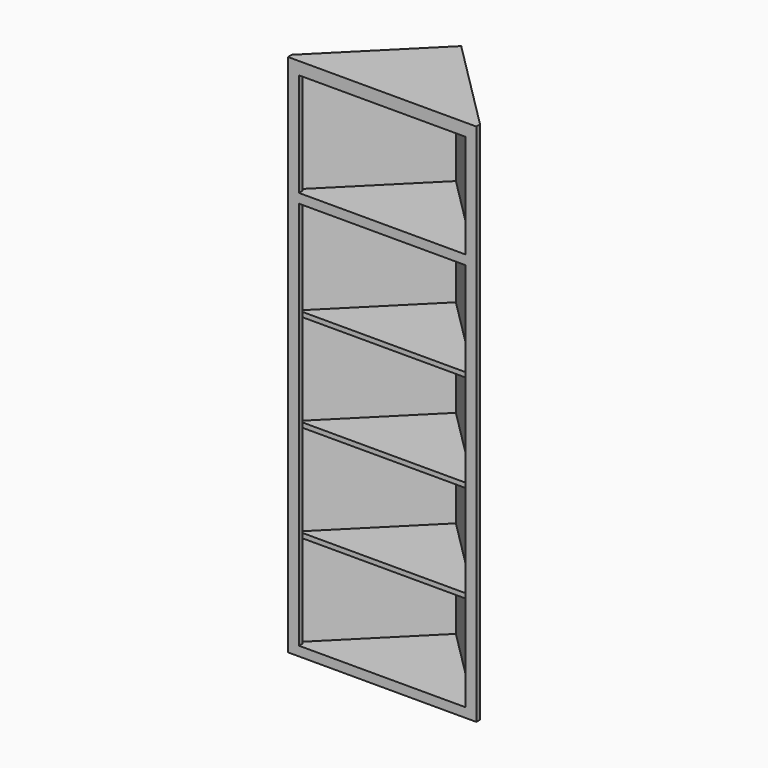
from build123d import *

# Parameters (mm, degrees)
F1_DEPTH  = 2133.6
F2_DEPTH  = 2133.6
F3_DEPTH  = 2133.6
F4_DEPTH  = 1905
F5_W      = 673.1
F5_H      = 419.1
F5_H_2    = 1574.8
F6_DEPTH  = 19.05
F7_DEPTH  = 209.55
F8_DEPTH  = 1663.7
F9_DEPTH  = 1644.65
F10_DEPTH = 1231.9
F11_DEPTH = 1212.85
F12_DEPTH = 787.4
F13_DEPTH = 768.35
F14_DEPTH = 393.7
F15_DEPTH = 374.65
F16_DEPTH = 50.8
F17_DEPTH = 31.75
F18_DEPTH = 50.8
F19_DEPTH = 50.8
F20_DEPTH = 50.8
F21_DEPTH = 50.8
F22_DEPTH = 12.7


with BuildPart() as f1:
    # F0 (on Top) → F1 (new body)
    with BuildSketch(Plane.XY):
        Polygon((-354.0592090795, -381), (-380.9999747663, -381), (-380.9999747663, -400.05), (381.0000252337, -400.05), (381.0000252337, -381), (354.0592559783, -381), align=None)
    extrude(amount=F1_DEPTH)

    # F0 (on Top) → F2 (join)
    with BuildSketch(Plane.XY):
        Polygon((381.0000252337, -381), (0, 0), (0, -26.9407674711), (354.0592559783, -381), align=None)
        Polygon((0, 0), (-380.9999747663, -381), (-354.0592090795, -381), (0, -26.9407674711), align=None)
    extrude(amount=F2_DEPTH)

    # F0 (on Top) → F3 (join)
    with BuildSketch(Plane.XY):
        Polygon((0, -26.9407674711), (-354.0592090795, -381), (354.0592559783, -381), align=None)
    extrude(amount=F3_DEPTH)

    # F0 (on Top) → F4 (cut)
    with BuildSketch(Plane.XY):
        Polygon((0, -26.9407674711), (-354.0592090795, -381), (354.0592559783, -381), align=None)
    extrude(amount=F4_DEPTH, mode=Mode.SUBTRACT)

    # F5 (on face) → F6 (cut)
    with BuildSketch(Plane.XZ.offset(400.05)):
        with Locations((2.52337e-05, 1873.25)):
            Rectangle(F5_W, F5_H)
        with Locations((2.52337e-05, 838.2)):
            Rectangle(F5_W, F5_H_2)
    extrude(amount=-F6_DEPTH, mode=Mode.SUBTRACT)

    # F7 (cut): a face of the model
    f7_faces = [f1.faces().sort_by_distance(p)[0] for p in [
        (1.56329e-05, -262.9802558237, 1905),
    ]]
    extrude(f7_faces, amount=-F7_DEPTH, mode=Mode.SUBTRACT)

    # F0 (on Top) → F8 (join)
    with BuildSketch(Plane.XY):
        Polygon((0, -26.9407674711), (-354.0592090795, -381), (354.0592559783, -381), align=None)
    extrude(amount=F8_DEPTH)

    # F0 (on Top) → F9 (cut)
    with BuildSketch(Plane.XY):
        Polygon((0, -26.9407674711), (-354.0592090795, -381), (354.0592559783, -381), align=None)
    extrude(amount=F9_DEPTH, mode=Mode.SUBTRACT)

    # F0 (on Top) → F10 (join)
    with BuildSketch(Plane.XY):
        Polygon((0, -26.9407674711), (-354.0592090795, -381), (354.0592559783, -381), align=None)
    extrude(amount=F10_DEPTH)

    # F0 (on Top) → F11 (cut)
    with BuildSketch(Plane.XY):
        Polygon((0, -26.9407674711), (-354.0592090795, -381), (354.0592559783, -381), align=None)
    extrude(amount=F11_DEPTH, mode=Mode.SUBTRACT)

    # F0 (on Top) → F12 (join)
    with BuildSketch(Plane.XY):
        Polygon((0, -26.9407674711), (-354.0592090795, -381), (354.0592559783, -381), align=None)
    extrude(amount=F12_DEPTH)

    # F0 (on Top) → F13 (cut)
    with BuildSketch(Plane.XY):
        Polygon((0, -26.9407674711), (-354.0592090795, -381), (354.0592559783, -381), align=None)
    extrude(amount=F13_DEPTH, mode=Mode.SUBTRACT)

    # F0 (on Top) → F14 (join)
    with BuildSketch(Plane.XY):
        Polygon((0, -26.9407674711), (-354.0592090795, -381), (354.0592559783, -381), align=None)
    extrude(amount=F14_DEPTH)

    # F0 (on Top) → F15 (cut)
    with BuildSketch(Plane.XY):
        Polygon((0, -26.9407674711), (-354.0592090795, -381), (354.0592559783, -381), align=None)
    extrude(amount=F15_DEPTH, mode=Mode.SUBTRACT)

    # F0 (on Top) → F16 (join)
    with BuildSketch(Plane.XY):
        Polygon((0, -26.9407674711), (-354.0592090795, -381), (354.0592559783, -381), align=None)
    extrude(amount=F16_DEPTH)

    # F0 (on Top) → F17 (cut)
    with BuildSketch(Plane.XY):
        Polygon((0, -26.9407674711), (-354.0592090795, -381), (354.0592559783, -381), align=None)
    extrude(amount=F17_DEPTH, mode=Mode.SUBTRACT)

    # F18 (add): a face of the model
    f18_faces = [f1.faces().sort_by_distance(p)[0] for p in [
        (1.56329e-05, -262.9802558237, 787.4),
    ]]
    extrude(f18_faces, amount=F18_DEPTH)

    # F19 (cut): a face of the model
    f19_faces = [f1.faces().sort_by_distance(p)[0] for p in [
        (1.56329e-05, -262.9802558237, 768.35),
    ]]
    extrude(f19_faces, amount=-F19_DEPTH, mode=Mode.SUBTRACT)

    # F20 (add): a face of the model
    f20_faces = [f1.faces().sort_by_distance(p)[0] for p in [
        (1.56329e-05, -262.9802558237, 393.7),
    ]]
    extrude(f20_faces, amount=F20_DEPTH)

    # F21 (cut): a face of the model
    f21_faces = [f1.faces().sort_by_distance(p)[0] for p in [
        (1.56329e-05, -262.9802558237, 374.65),
    ]]
    extrude(f21_faces, amount=-F21_DEPTH, mode=Mode.SUBTRACT)

    # F0 (on Top) → F22 (cut)
    with BuildSketch(Plane.XY):
        Polygon((381.0000252337, -381), (0, 0), (0, -26.9407674711), (354.0592559783, -381), align=None)
        Polygon((0, 0), (-380.9999747663, -381), (-354.0592090795, -381), (0, -26.9407674711), align=None)
        Polygon((-354.0592090795, -381), (-380.9999747663, -381), (-380.9999747663, -400.05), (381.0000252337, -400.05), (381.0000252337, -381), (354.0592559783, -381), align=None)
    extrude(amount=F22_DEPTH, mode=Mode.SUBTRACT)


solid = f1.part
